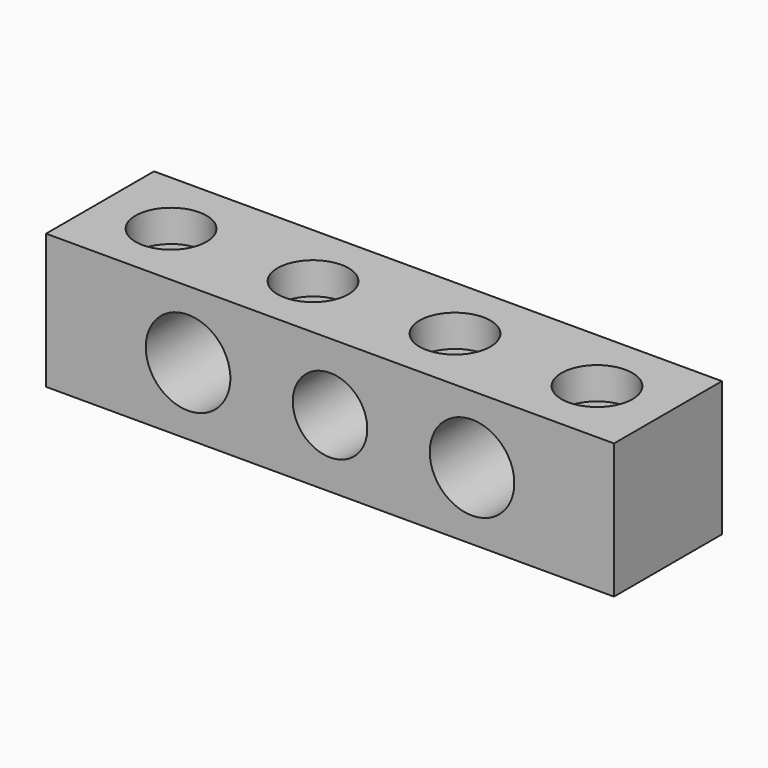
from build123d import *

# Parameters (mm, degrees)
F0_W     = 80
F0_H     = 19
F1_DEPTH = 19
F2_R     = 5.955
F2_R_2   = 5.25
F3_DEPTH = 19.001
F5_DEPTH = 19.001
F6_R     = 5
F7_DEPTH = 4.5


with BuildPart() as f1:
    # F0 (on Top) → F1 (new body)
    with BuildSketch(Plane.XY):
        Rectangle(F0_W, F0_H)
    extrude(amount=F1_DEPTH)

    # F2 (on face) → F3 (cut, through all)
    with BuildSketch(Plane(origin=(0, 9.5, 0), x_dir=(-1, 0, 0), z_dir=(0, 1, 0))):
        with Locations((20, 9.5)):
            Circle(F2_R)
        with Locations((-20, 9.5)):
            Circle(F2_R)
        with Locations((0, 9.5)):
            Circle(F2_R_2)
    extrude(amount=-F3_DEPTH, mode=Mode.SUBTRACT)

    # F4 (on face) → F5 (cut, through all)
    with BuildSketch(Plane.XY.offset(19)):
        with BuildLine():
            ThreePointArc((-27.45, 0), (-30, 2.55), (-32.55, 0))
            Line((-32.55, 0), (-27.45, 0))
        make_face()
        with BuildLine():
            ThreePointArc((32.55, 0), (30, 2.55), (27.45, 0))
            Line((27.45, 0), (32.55, 0))
        make_face()
        with BuildLine():
            Line((32.55, 0), (27.45, 0))
            ThreePointArc((27.45, 0), (30, -2.55), (32.55, 0))
        make_face()
        with BuildLine():
            ThreePointArc((12.55, 0), (10, 2.55), (7.45, 0))
            Line((7.45, 0), (12.55, 0))
        make_face()
        with BuildLine():
            Line((12.55, 0), (7.45, 0))
            ThreePointArc((7.45, 0), (10, -2.55), (12.55, 0))
        make_face()
        with BuildLine():
            ThreePointArc((-7.45, 0), (-10, 2.55), (-12.55, 0))
            Line((-12.55, 0), (-7.45, 0))
        make_face()
        with BuildLine():
            Line((-7.45, 0), (-12.55, 0))
            ThreePointArc((-12.55, 0), (-10, -2.55), (-7.45, 0))
        make_face()
        with BuildLine():
            Line((-27.45, 0), (-32.55, 0))
            ThreePointArc((-32.55, 0), (-30, -2.55), (-27.45, 0))
        make_face()
    extrude(amount=-F5_DEPTH, mode=Mode.SUBTRACT)

    # F6 (on face) → F7 (cut)
    with BuildSketch(Plane.XY.offset(19)):
        with Locations((-30, 0)):
            Circle(F6_R)
        with Locations((-10, 0)):
            Circle(F6_R)
        with Locations((10, 0)):
            Circle(F6_R)
        with Locations((30, 0)):
            Circle(F6_R)
    extrude(amount=-F7_DEPTH, mode=Mode.SUBTRACT)


solid = f1.part
